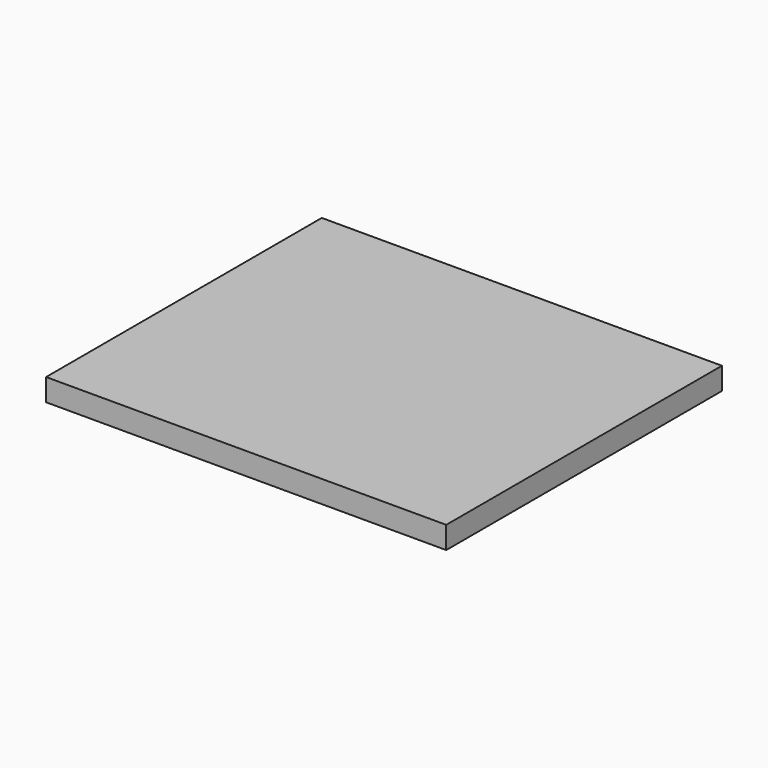
from build123d import *

# Parameters (mm, degrees)
SKETCH_W  = 36
SKETCH_H  = 31
PAD_DEPTH = 2


with BuildPart() as part:
    # Sketch → Pad (new body)
    with BuildSketch(Plane.XY):
        with Locations((20, 19.5)):
            Rectangle(SKETCH_W, SKETCH_H)
    extrude(amount=PAD_DEPTH)


solid = part.part
